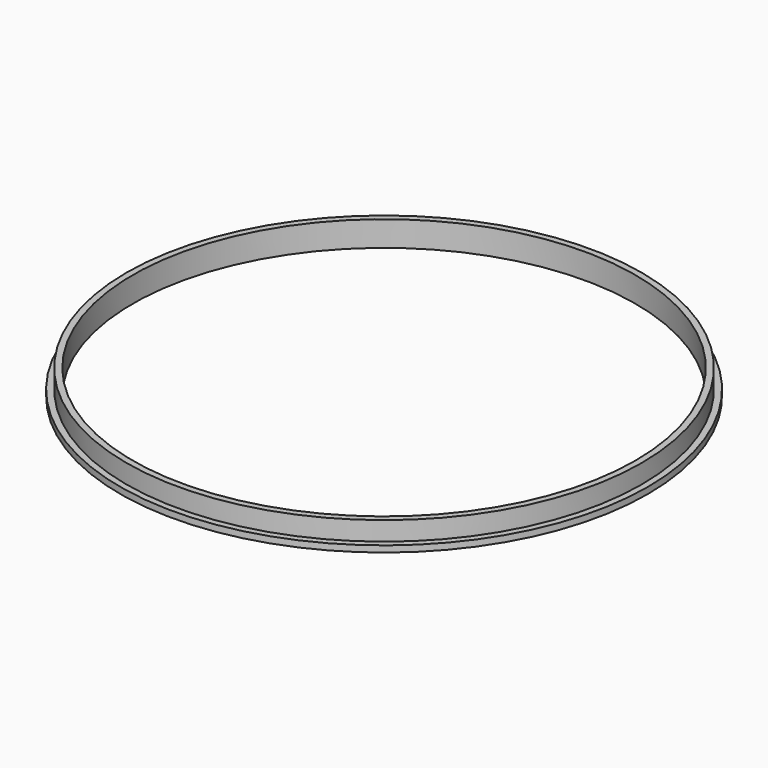
from build123d import *

# Parameters (mm, degrees)
SKETCH_R     = 20.9
PAD_DEPTH    = 0.5
SKETCH001_R  = 20.4
PAD001_DEPTH = 1.5
SKETCH002_R  = 19.9
POCKET_DEPTH = 5


with BuildPart() as part:
    # Sketch → Pad (new body)
    with BuildSketch(Plane.XY):
        Circle(SKETCH_R)
    extrude(amount=PAD_DEPTH)

    # Sketch001 (on Face3 of Pad) → Pad001 (join)
    with BuildSketch(Plane.XY.offset(0.5)):
        Circle(SKETCH001_R)
    extrude(amount=PAD001_DEPTH)

    # Sketch002 (on Face5 of Pad001) → Pocket (cut)
    with BuildSketch(Plane.XY.offset(2)):
        Circle(SKETCH002_R)
    extrude(amount=-POCKET_DEPTH, mode=Mode.SUBTRACT)


solid = part.part
